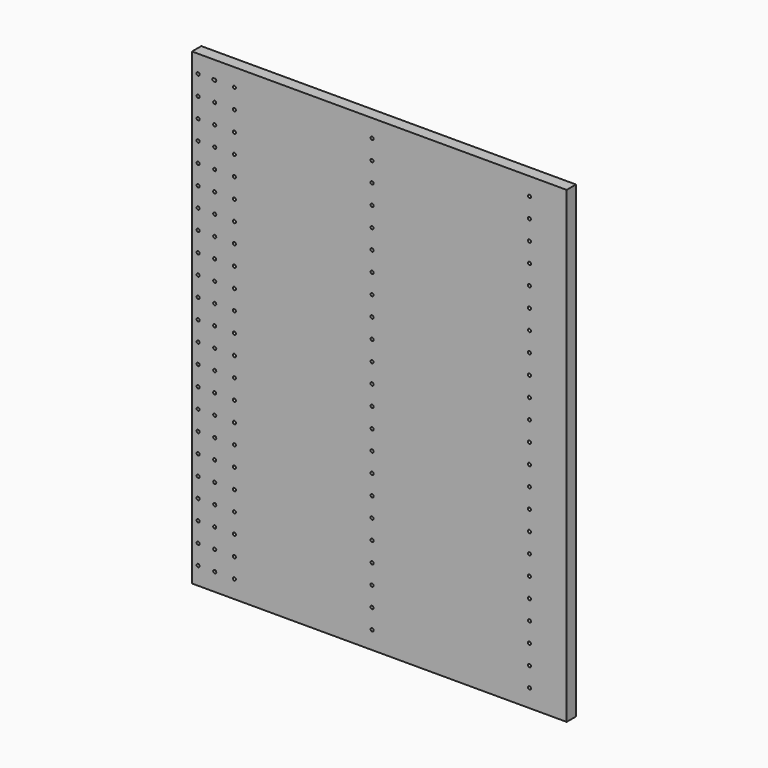
from build123d import *

# Parameters (mm, degrees)
F0_W     = 609.6
F0_H     = 762
F1_DEPTH = 19
F3_D     = 5
F3_DEPTH = 8
F3_TIP   = 1.5021515476
F4_D     = 5
F4_DEPTH = 8
F4_TIP   = 1.5021515476


with BuildPart() as f1:
    # F0 (on Front) → F1 (new body)
    with BuildSketch(Plane.XZ):
        Rectangle(F0_W, F0_H)
    extrude(amount=F1_DEPTH)

    # F3
    with Locations(Plane.XZ.offset(19)):
        with Locations((-235.8, 32), (-235.8, 224), (-11.8, -128), (-267.8, 352), (-11.8, 96), (-11.8, 0), (-267.8, -352), (-267.8, 256), (-294.8, -128), (-235.8, 128), (-294.8, 256), (-11.8, 128), (-294.8, -160), (-294.8, -192), (-235.8, 256), (-294.8, 64), (-294.8, 32), (-235.8, -224), (-294.8, 352), (-294.8, 128), (-11.8, -96), (-294.8, 160), (-235.8, 288), (-11.8, 288), (-269.4, 352), (-235.8, -160), (-235.8, 96), (-11.8, -352), (-235.8, -256), (-267.8, -96), (-267.8, 224), (-11.8, -288), (-235.8, -320), (-267.8, 128), (-11.8, 192), (-11.8, 224), (-294.8, -224), (-294.8, 320), (-294.8, 288), (-235.8, -128), (-235.8, 160), (-11.8, 352), (-294.8, -256), (-235.8, 0), (-294.8, 192), (-235.8, -192), (-11.8, 320), (-294.8, -288), (-11.8, -320), (-267.8, -192), (-294.8, -320), (-11.8, -192), (-11.8, 256), (-267.8, -32), (-267.8, 96), (-267.8, 160), (-294.8, -96), (-235.8, 64), (-11.8, -64), (-294.8, -32), (-294.8, -352), (-267.8, 320), (-294.8, 0), (-11.8, 160), (-11.8, -160), (-235.8, 352), (-11.8, 64), (-267.8, 64), (-267.8, -224), (-267.8, 0), (-267.8, 288), (-235.8, -64), (-267.8, -128), (-11.8, -256), (-235.8, -288), (-11.8, 32), (-294.8, 96), (-267.8, -160), (-294.8, -64), (-267.8, 32), (-267.8, -256), (-235.8, -96), (-235.8, -352), (-267.8, -320), (-267.8, -288), (-235.8, -32), (-267.8, -64), (-294.8, 224), (-235.8, 320), (-11.8, -224), (-235.8, 192), (-11.8, -32), (-267.8, 192)):
            Hole(F3_D / 2, depth=F3_DEPTH)
            with Locations((0, 0, -(F3_DEPTH + F3_TIP / 2))):  # 118° drill point
                Cone(0, F3_D / 2, F3_TIP, mode=Mode.SUBTRACT)

    # F4
    with Locations(Plane.XZ.offset(19)):
        with Locations((244.2, 288), (244.2, -160), (244.2, 32), (244.2, 352), (244.2, -256), (244.2, -320), (244.2, -224), (244.2, 0), (244.2, -32), (244.2, -128), (244.2, 224), (244.2, -96), (244.2, -192), (244.2, 320), (244.2, 256), (244.2, 192), (244.2, 128), (244.2, 64), (244.2, -288), (244.2, 96), (244.2, -64), (244.2, 160), (244.2, -352)):
            Hole(F4_D / 2, depth=F4_DEPTH)
            with Locations((0, 0, -(F4_DEPTH + F4_TIP / 2))):  # 118° drill point
                Cone(0, F4_D / 2, F4_TIP, mode=Mode.SUBTRACT)


solid = f1.part
